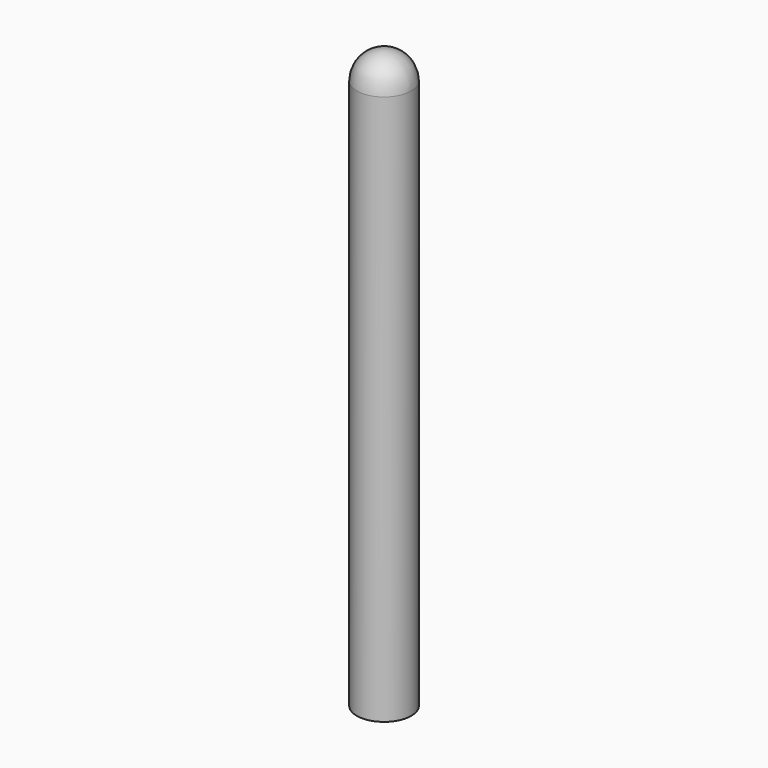
from build123d import *

# Parameters (mm, degrees)
F2_T = -1.016


with BuildPart() as f1:
    # F0 (on Front) → F1 (revolve)
    with BuildSketch(Plane.XZ):
        with BuildLine():
            Line((0, 269.875), (0, 0))
            Line((0, 0), (12.7254, 0))
            Line((12.7254, 0), (12.7254, 257.1496))
            ThreePointArc((12.7254, 257.1496), (8.998217, 266.147817), (0, 269.875))
        make_face()
    revolve(axis=Axis((0, 0, 134.9375), (0, 0, 1)))

    # F2
    f2_openings = [f1.faces().sort_by_distance(p)[0] for p in [
        (0, 0, 0),
    ]]
    offset(amount=F2_T, openings=f2_openings)


solid = f1.part
